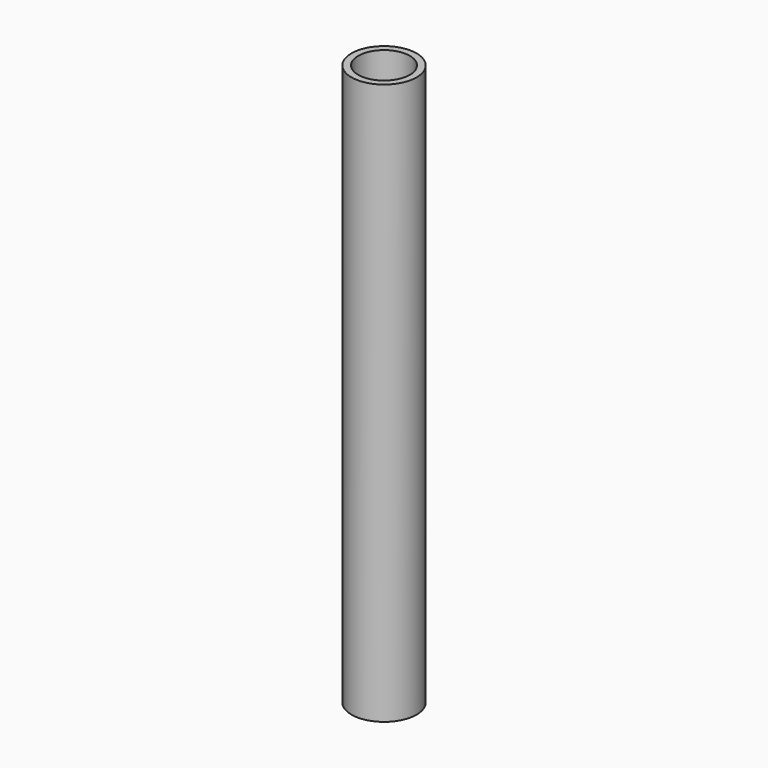
from build123d import *

# Parameters (mm, degrees)
F2_R     = 4.8895
F2_R_2   = 3.8735
F4_R     = 3.8735
F5_DEPTH = 36.8083846


with BuildPart() as f3:
    # F3: sweep along a path in F0
    with BuildLine(Plane.YZ) as f3_path:
        Line((0, 23.4448965639), (0, -60.8106888831))
    # F2 (on line) → F3 (sweep)
    with BuildSketch(Plane(origin=(0, 0, 23.4448965639), x_dir=(1, 0, 0), z_dir=(0, 0, -1))):
        Circle(F2_R)
        Circle(F2_R_2, mode=Mode.SUBTRACT)
    sweep(path=f3_path.line)


with BuildPart() as f5:
    # F4 (on Top) → F5 (new body)
    with BuildSketch(Plane.XY):
        Circle(F4_R)
    extrude(amount=-F5_DEPTH)


solid = Compound([f3.part, f5.part])
